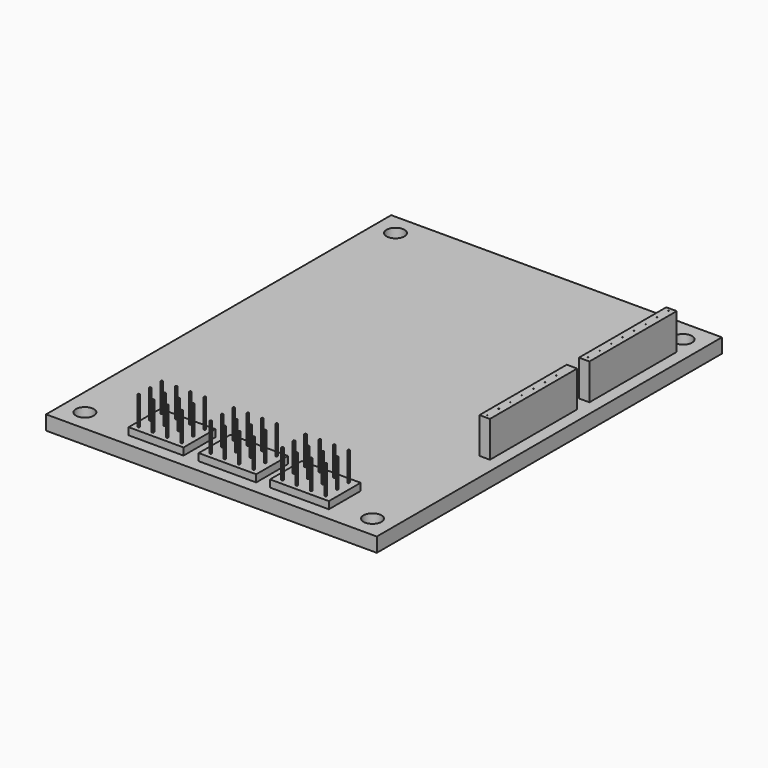
from build123d import *

# Parameters (mm, degrees)
F0_W     = 58.42
F0_H     = 76.2
F0_R     = 1.5875
F1_DEPTH = 2.54
F2_W     = 1.843778
F2_H     = 19.27523
F2_W_2   = 0.127
F2_H_2   = 0.127
F2_H_3   = 19.275231
F3_DEPTH = 6.35
F4_W     = 0.254
F4_H     = 0.254
F5_DEPTH = 6.35
F6_W     = 9.699253
F6_H     = 7.023752
F6_W_2   = 10.151351
F6_W_3   = 10.39357
F7_DEPTH = 1.27


with BuildPart() as f1:
    # F0 (on Top) → F1 (new body)
    with BuildSketch(Plane.XY):
        Rectangle(F0_W, F0_H)
        with Locations((-25.4, -34.29)):
            Circle(F0_R, mode=Mode.SUBTRACT)
        with Locations((25.4, -34.29)):
            Circle(F0_R, mode=Mode.SUBTRACT)
        with Locations((-25.4, 34.29)):
            Circle(F0_R, mode=Mode.SUBTRACT)
        with Locations((25.4, 34.29)):
            Circle(F0_R, mode=Mode.SUBTRACT)
    extrude(amount=F1_DEPTH)

    # F2 (on face) → F3 (join)
    with BuildSketch(Plane.XY.offset(2.54)):
        with Locations((26.146182, 21.158462)):
            Rectangle(F2_W, F2_H)
        with Locations((26.123901, 12.412802)):
            Rectangle(F2_W_2, F2_H_2, mode=Mode.SUBTRACT)
        with Locations((26.123901, 14.952802)):
            Rectangle(F2_W_2, F2_H_2, mode=Mode.SUBTRACT)
        with Locations((26.123901, 17.492802)):
            Rectangle(F2_W_2, F2_H_2, mode=Mode.SUBTRACT)
        with Locations((26.123901, 20.032802)):
            Rectangle(F2_W_2, F2_H_2, mode=Mode.SUBTRACT)
        with Locations((26.123901, 22.572802)):
            Rectangle(F2_W_2, F2_H_2, mode=Mode.SUBTRACT)
        with Locations((26.123901, 25.112802)):
            Rectangle(F2_W_2, F2_H_2, mode=Mode.SUBTRACT)
        with Locations((26.123901, 27.652802)):
            Rectangle(F2_W_2, F2_H_2, mode=Mode.SUBTRACT)
        with Locations((26.123901, 30.192802)):
            Rectangle(F2_W_2, F2_H_2, mode=Mode.SUBTRACT)
        with Locations((26.146182, -0.813257)):
            Rectangle(F2_W, F2_H_3)
        with Locations((26.123901, -9.847597)):
            Rectangle(F2_W_2, F2_H_2, mode=Mode.SUBTRACT)
        with Locations((26.123901, -7.307597)):
            Rectangle(F2_W_2, F2_H_2, mode=Mode.SUBTRACT)
        with Locations((26.123901, -4.767597)):
            Rectangle(F2_W_2, F2_H_2, mode=Mode.SUBTRACT)
        with Locations((26.123901, -2.227597)):
            Rectangle(F2_W_2, F2_H_2, mode=Mode.SUBTRACT)
        with Locations((26.123901, 0.312403)):
            Rectangle(F2_W_2, F2_H_2, mode=Mode.SUBTRACT)
        with Locations((26.123901, 2.852403)):
            Rectangle(F2_W_2, F2_H_2, mode=Mode.SUBTRACT)
        with Locations((26.123901, 5.392403)):
            Rectangle(F2_W_2, F2_H_2, mode=Mode.SUBTRACT)
    extrude(amount=F3_DEPTH)

    # F4 (on face) → F5 (join)
    with BuildSketch(Plane.XY.offset(2.54)):
        with Locations((-15.367, -34.961494)):
            Rectangle(F4_W, F4_H)
        with Locations((-12.827, -34.961494)):
            Rectangle(F4_W, F4_H)
        with Locations((-10.287, -34.961494)):
            Rectangle(F4_W, F4_H)
        with Locations((-7.747, -34.961494)):
            Rectangle(F4_W, F4_H)
        with Locations((-7.747, -32.421494)):
            Rectangle(F4_W, F4_H)
        with Locations((-15.367, -32.421494)):
            Rectangle(F4_W, F4_H)
        with Locations((-12.827, -32.421494)):
            Rectangle(F4_W, F4_H)
        with Locations((-10.287, -32.421494)):
            Rectangle(F4_W, F4_H)
        with Locations((-7.747, -29.881494)):
            Rectangle(F4_W, F4_H)
        with Locations((-15.367, -29.881494)):
            Rectangle(F4_W, F4_H)
        with Locations((-12.827, -29.881494)):
            Rectangle(F4_W, F4_H)
        with Locations((-10.287, -29.881494)):
            Rectangle(F4_W, F4_H)
        with Locations((2.413, -32.421494)):
            Rectangle(F4_W, F4_H)
        with Locations((4.953, -32.421494)):
            Rectangle(F4_W, F4_H)
        with Locations((4.953, -29.881494)):
            Rectangle(F4_W, F4_H)
        with Locations((2.413, -29.881494)):
            Rectangle(F4_W, F4_H)
        with Locations((4.953, -34.961494)):
            Rectangle(F4_W, F4_H)
        with Locations((2.413, -34.961494)):
            Rectangle(F4_W, F4_H)
        with Locations((-2.667, -29.881494)):
            Rectangle(F4_W, F4_H)
        with Locations((-0.127, -29.881494)):
            Rectangle(F4_W, F4_H)
        with Locations((-0.127, -32.421494)):
            Rectangle(F4_W, F4_H)
        with Locations((-2.667, -34.961494)):
            Rectangle(F4_W, F4_H)
        with Locations((-0.127, -34.961494)):
            Rectangle(F4_W, F4_H)
        with Locations((-2.667, -32.421494)):
            Rectangle(F4_W, F4_H)
        with Locations((15.113, -32.421494)):
            Rectangle(F4_W, F4_H)
        with Locations((17.653, -32.421494)):
            Rectangle(F4_W, F4_H)
        with Locations((17.653, -29.881494)):
            Rectangle(F4_W, F4_H)
        with Locations((15.113, -29.881494)):
            Rectangle(F4_W, F4_H)
        with Locations((17.653, -34.961494)):
            Rectangle(F4_W, F4_H)
        with Locations((15.113, -34.961494)):
            Rectangle(F4_W, F4_H)
        with Locations((10.033, -29.881494)):
            Rectangle(F4_W, F4_H)
        with Locations((12.573, -29.881494)):
            Rectangle(F4_W, F4_H)
        with Locations((12.573, -32.421494)):
            Rectangle(F4_W, F4_H)
        with Locations((10.033, -34.961494)):
            Rectangle(F4_W, F4_H)
        with Locations((12.573, -34.961494)):
            Rectangle(F4_W, F4_H)
        with Locations((10.033, -32.421494)):
            Rectangle(F4_W, F4_H)
    extrude(amount=F5_DEPTH)

    # F6 (on face) → F7 (join)
    with BuildSketch(Plane.XY.offset(2.54)):
        with Locations((-11.552149, -32.369461)):
            Rectangle(F6_W, F6_H)
        with Locations((1.05162, -32.369461)):
            Rectangle(F6_W_2, F6_H)
        with Locations((13.768951, -32.369461)):
            Rectangle(F6_W_3, F6_H)
    extrude(amount=F7_DEPTH)


solid = f1.part
